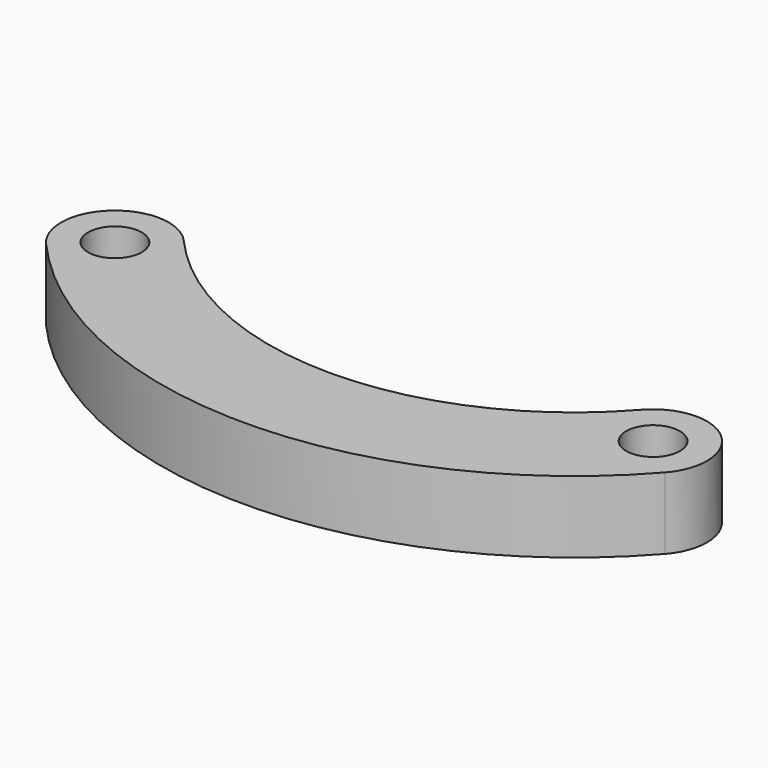
from build123d import *

# Parameters (mm, degrees)
F0_R     = 9.525
F1_DEPTH = 25.4


with BuildPart() as f1:
    # F0 (on Top) → F1 (new body)
    with BuildSketch(Plane.XY):
        with BuildLine():
            ThreePointArc((176.2125, 12.600391), (95.25, -23.947396), (14.2875, 12.600391))
            ThreePointArc((14.2875, 12.600391), (-12.600391, 14.2875), (-14.2875, -12.600391))
            ThreePointArc((-14.2875, -12.600391), (95.25, -62.047396), (204.7875, -12.600391))
            ThreePointArc((204.7875, -12.600391), (203.100391, 14.2875), (176.2125, 12.600391))
        make_face()
        Circle(F0_R, mode=Mode.SUBTRACT)
        with Locations((190.5, 0)):
            Circle(F0_R, mode=Mode.SUBTRACT)
    extrude(amount=F1_DEPTH)


solid = f1.part
